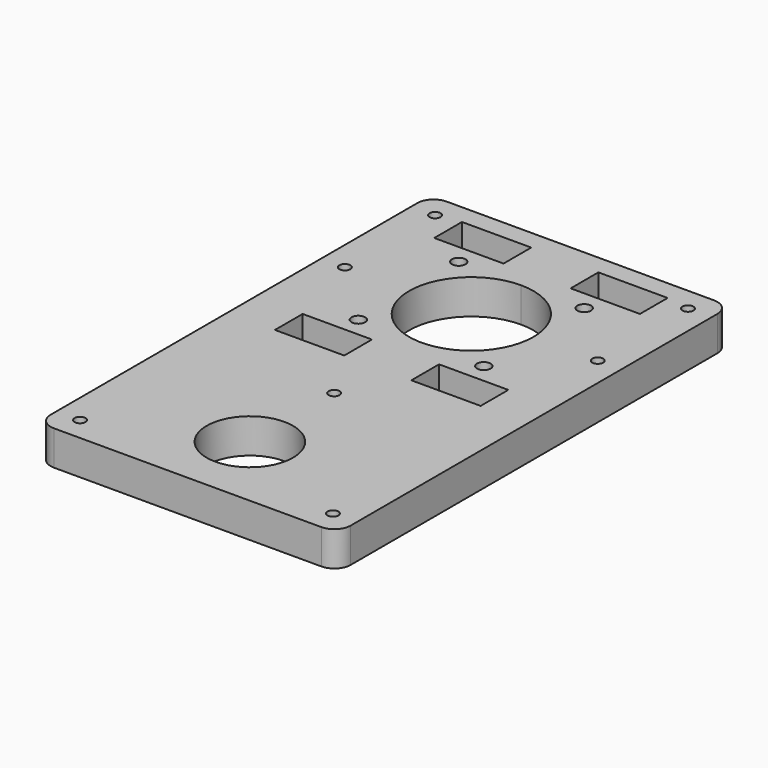
from build123d import *

# Parameters (mm, degrees)
F0_W     = 55
F0_H     = 90
F0_W_2   = 12.7
F0_H_2   = 6.35
F1_DEPTH = 6.35
F2_D     = 2.5
F3_R     = 3
F4_D     = 15.83
F5_D     = 2


with BuildPart() as f1:
    # F0 (on Top) → F1 (new body)
    with BuildSketch(Plane.XY):
        with Locations((0, -20)):
            Rectangle(F0_W, F0_H)
        with Locations((-12.5, -18.25)):
            Rectangle(F0_W_2, F0_H_2, mode=Mode.SUBTRACT)
        with Locations((-12.5, 18.25)):
            Rectangle(F0_W_2, F0_H_2, mode=Mode.SUBTRACT)
        with Locations((12.5, -18.25)):
            Rectangle(F0_W_2, F0_H_2, mode=Mode.SUBTRACT)
        with BuildLine():
            ThreePointArc((0, 11.4), (8.0610173055, 8.0610173055), (11.4, 0))
            ThreePointArc((11.4, 0), (-8.0610173055, -8.0610173055), (0, 11.4))
        make_face(mode=Mode.SUBTRACT)
        with Locations((12.5, 18.25)):
            Rectangle(F0_W_2, F0_H_2, mode=Mode.SUBTRACT)
    extrude(amount=F1_DEPTH)

    # F2 (through all)
    with Locations(Plane(origin=(0, 0, 0), x_dir=(1, 0, 0), z_dir=(0, 0, -1))):
        with Locations((-11.5, -11.5), (11.5, -11.5), (11.5, 11.5), (-11.5, 11.5)):
            Hole(F2_D / 2)

    # F3
    f3_edges = [f1.edges().sort_by_distance(p)[0] for p in [
        (-27.5, -65, 3.175),
        (27.5, -65, 3.175),
        (27.5, 25, 3.175),
        (-27.5, 25, 3.175),
    ]]
    fillet(f3_edges, radius=F3_R)

    # F4 (through all)
    with Locations(Plane(origin=(0, 0, 0), x_dir=(1, 0, 0), z_dir=(0, 0, -1))):
        with Locations((0, 50.735)):
            Hole(F4_D / 2)

    # F5 (through all)
    with Locations(Plane(origin=(0, 0, 0), x_dir=(1, 0, 0), z_dir=(0, 0, -1))):
        with Locations((-23.175, -20.675), (23.175, -20.675), (23.175, 0), (-23.175, 0), (-23.175, 60.675), (23.175, 60.675), (0, 31.431786716)):
            Hole(F5_D / 2)


solid = f1.part
